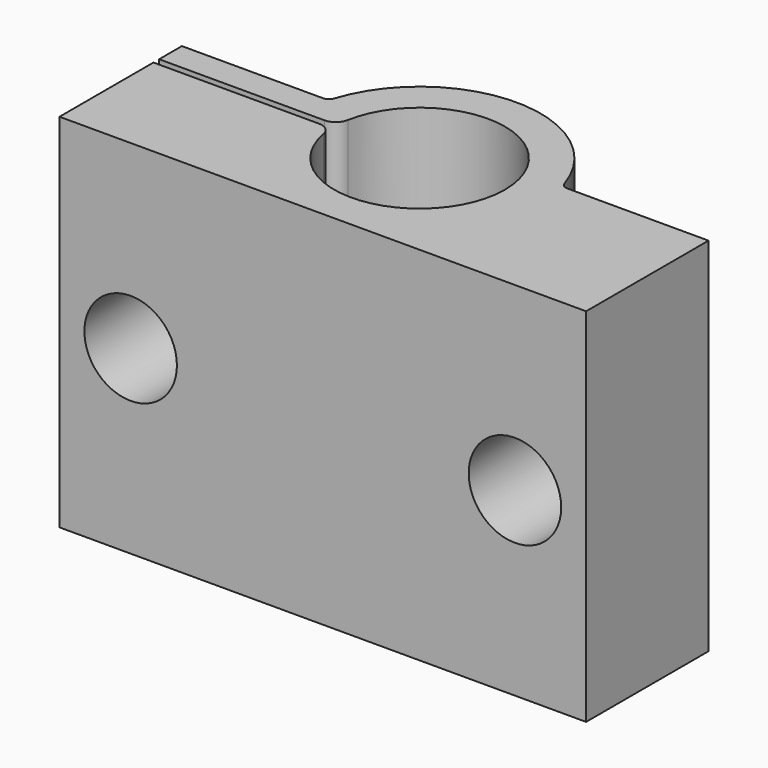
from build123d import *

# Parameters (mm, degrees)
F1_DEPTH = 25.4
F2_R     = 1
F3_R     = 0.5
F4_R     = 3.25
F5_DEPTH = 17.001


with BuildPart() as f1:
    # F0 (on Top) → F1 (new body)
    with BuildSketch(Plane.XY):
        with BuildLine():
            Line((-18.5, -0.25), (-18.5, -8.5))
            Line((-18.5, -8.5), (18.5, -8.5))
            Line((18.5, -8.5), (18.5, 2.25))
            Line((18.5, 2.25), (8.196798, 2.25))
            ThreePointArc((8.196798, 2.25), (0, 8.5), (-8.196798, 2.25))
            Line((-8.196798, 2.25), (-18.5, 2.25))
            Line((-18.5, 2.25), (-18.5, 0.25))
            Line((-18.5, 0.25), (-5.994789, 0.25))
            ThreePointArc((-5.994789, 0.25), (6, 0), (-5.994789, -0.25))
            Line((-5.994789, -0.25), (-18.5, -0.25))
        make_face()
    extrude(amount=F1_DEPTH)

    # F2
    f2_edges = [f1.edges().sort_by_distance(p)[0] for p in [
        (-5.994789, 0.25, 12.7),
        (-5.994789, -0.25, 12.7),
    ]]
    fillet(f2_edges, radius=F2_R)

    # F3
    f3_edges = [f1.edges().sort_by_distance(p)[0] for p in [
        (-8.196798, 2.25, 12.7),
        (8.196798, 2.25, 12.7),
    ]]
    fillet(f3_edges, radius=F3_R)

    # F4 (on face) → F5 (cut, through all)
    with BuildSketch(Plane.XZ.offset(8.5)):
        with Locations((-13.5, 12.7)):
            Circle(F4_R)
        with Locations((13.5, 12.7)):
            Circle(F4_R)
    extrude(amount=-F5_DEPTH, mode=Mode.SUBTRACT)


solid = f1.part
